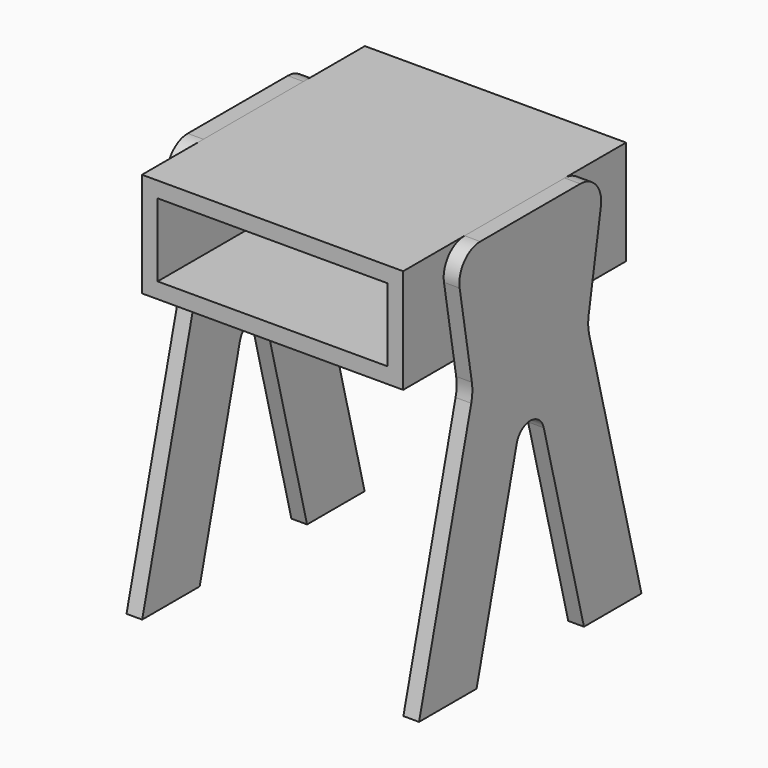
from build123d import *

# Parameters (mm, degrees)
F2_DEPTH = 18
F3_W     = 320
F3_H     = 120
F4_DEPTH = 150
F6_T     = -18


with BuildPart() as f2:
    # F1 (on offset) → F2 (new body)
    with BuildSketch(Plane.YZ.offset(150)):
        with BuildLine():
            Line((71.807722, 225), (-71.807722, 225))
            ThreePointArc((-71.807722, 225), (-94.740323, 214.341556), (-101.377868, 189.939721))
            Line((-101.377868, 189.939721), (-83.866298, 87.609463))
            ThreePointArc((-83.866298, 87.609463), (-83.191914, 77.125763), (-84.72293, 66.732555))
            Line((-84.72293, 66.732555), (-159.682438, -225))
            Line((-159.682438, -225), (-77.083794, -225))
            Line((-77.083794, -225), (-19.370778, -0.388524))
            ThreePointArc((-19.370778, -0.388524), (-12.256735, 10.438423), (0, 14.634233))
            ThreePointArc((0, 14.634233), (12.256735, 10.438423), (19.370778, -0.388524))
            Line((19.370778, -0.388524), (77.083794, -225))
            Line((77.083794, -225), (159.682438, -225))
            Line((159.682438, -225), (84.72293, 66.732555))
            ThreePointArc((84.72293, 66.732555), (83.191914, 77.125763), (83.866298, 87.609463))
            Line((83.866298, 87.609463), (101.377868, 189.939721))
            ThreePointArc((101.377868, 189.939721), (94.740323, 214.341556), (71.807722, 225))
        make_face()
    extrude(amount=F2_DEPTH)


with BuildPart() as f4:
    # F3 (on Right) → F4 (new body, symmetric)
    with BuildSketch(Plane.YZ):
        with Locations((0, 165)):
            Rectangle(F3_W, F3_H)
    extrude(amount=F4_DEPTH, both=True)

    # F6
    f6_openings = [f4.faces().sort_by_distance(p)[0] for p in [
        (0, -160, 165),
    ]]
    offset(amount=F6_T, openings=f6_openings)


with BuildPart() as f5_1:
    # F5: instance of F2
    add(f2.part.mirror(Plane.YZ))


solid = Compound([f2.part, f4.part, f5_1.part])
